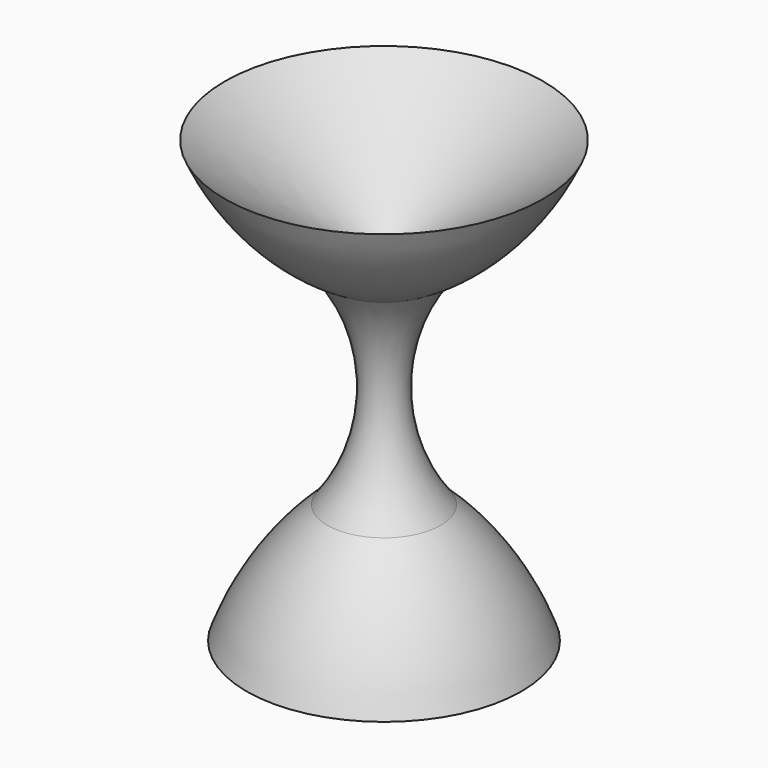
from build123d import *

# Parameters (mm, degrees)
F2_R     = 2.094537
F3_DEPTH = 381


with BuildPart() as f1:
    # F0 (on Front) → F1 (revolve)
    with BuildSketch(Plane.XZ):
        with BuildLine():
            Line((0, -10.922001), (0, 27.889501))
            ThreePointArc((0, 27.889501), (-9.466287, 33.847991), (-18.542001, 40.386003))
            ThreePointArc((-18.542001, 40.386003), (-13.637245, 32.820088), (-6.604, 27.178001))
            ThreePointArc((-6.604, 27.178001), (-2.456113, 15.113), (-6.604, 3.048))
            ThreePointArc((-6.604, 3.048), (-12.162892, -3.358528), (-16.002001, -10.922001))
            Line((-16.002001, -10.922001), (0, -10.922001))
        make_face()
    revolve(axis=Axis((0, 0, -0.762001), (0, 0, -1)))

    # F2 (on Top) → F3 (cut)
    with BuildSketch(Plane.XY):
        Circle(F2_R)
    extrude(amount=F3_DEPTH, mode=Mode.SUBTRACT)


solid = f1.part
